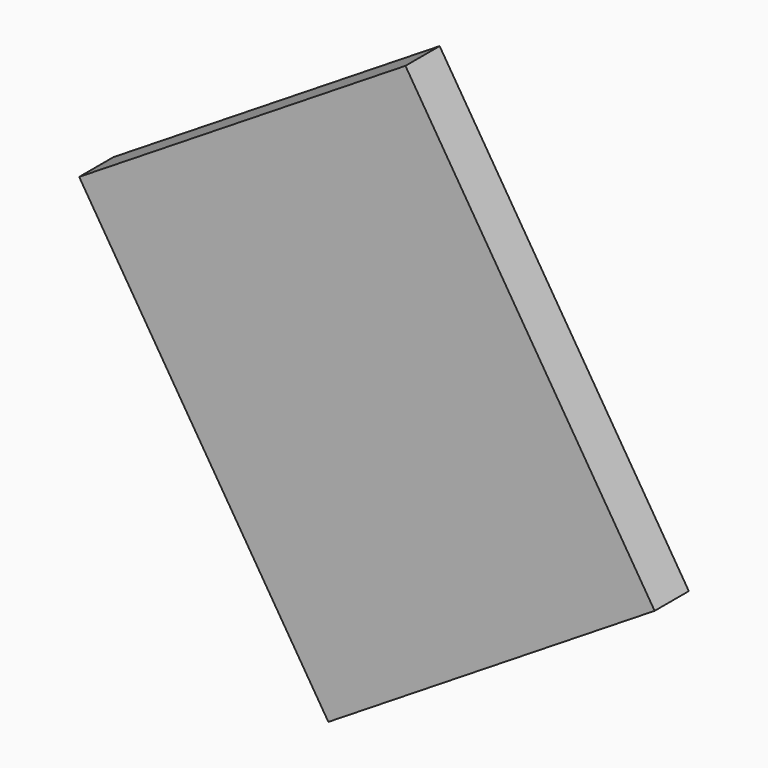
from build123d import *

# Parameters (mm, degrees)
CYLINDER061_R      = 0.5
CYLINDER061_DEPTH  = 0.01
BOX134_W           = 4.5
BOX134_H           = 5.5
BOX134_DEPTH       = 0.5
CUT059_ROLL_ANGLE  = -90
CUT059_PITCH_ANGLE = -32


with BuildPart() as cylinder061:
    # Cylinder061 → Cylinder061 (new body)
    with BuildSketch(Plane(origin=(1, 4.5, 0.49), x_dir=(1, 0, 0), z_dir=(0, 0, 1))):
        Circle(CYLINDER061_R)
    extrude(amount=CYLINDER061_DEPTH)


with BuildPart() as obj1:
    # Box134 → Box134 (new body)
    with BuildSketch(Plane.XY):
        with Locations((2.25, 2.75)):
            Rectangle(BOX134_W, BOX134_H)
    extrude(amount=BOX134_DEPTH)

    # Cut059: cut Cylinder061
    add(cylinder061.part, mode=Mode.SUBTRACT)


with BuildPart() as obj1_1:
    # Cut059 roll: moved
    add(obj1.part.rotate(Axis((0, 0, 0), (1, 0, 0)), CUT059_ROLL_ANGLE))


with BuildPart() as obj1_2:
    # Cut059 pitch: moved
    add(obj1_1.part.rotate(Axis((0, 0, 0), (0, 1, 0)), CUT059_PITCH_ANGLE))


with BuildPart() as obj1_3:
    # Cut059 placement: moved
    add(obj1_2.part.moved(Location((-9.429562, 1.64, 54.797147))))


solid = obj1_3.part
